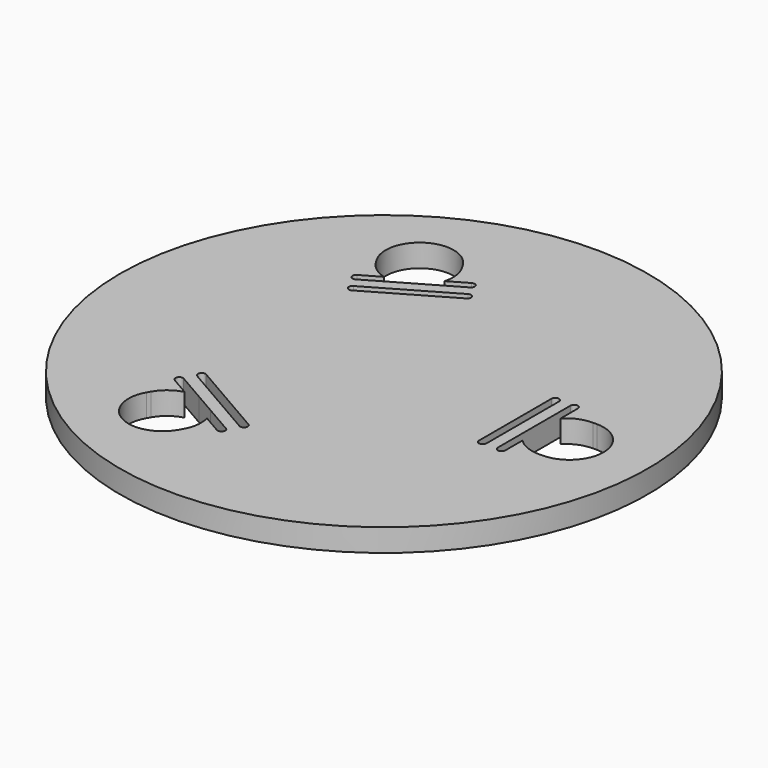
from build123d import *

# Parameters (mm, degrees)
SKETCH015_W     = 34.949282
SKETCH015_H     = 3
POCKET002_DEPTH = 3.001
PAD003_DEPTH    = 3
POCKET003_DEPTH = 3.001


with BuildPart() as part:
    # Sketch015 → Revolution004 (revolve)
    with BuildSketch(Plane.XZ):
        with Locations((-17.474641, 46.45)):
            Rectangle(SKETCH015_W, SKETCH015_H)
    revolve(axis=Axis((0, 0, 0), (0, 0, 1)))

    # Sketch024 (on Face1 of Revolution004) → Pocket002 (cut, through all)
    with BuildSketch(Plane(origin=(0, 0, 47.95), x_dir=(-1, 0, 0), z_dir=(0, 0, 1))):
        with BuildLine():
            ThreePointArc((-24.580824, 4.5), (-29.080824, 0), (-24.580824, -4.5))
            Line((-24.580824, -4.5), (-24.080824, -4.5))
            ThreePointArc((-24.080824, -4.5), (-19.580824, 0), (-24.080824, 4.5))
            Line((-24.080824, 4.5), (-24.580824, 4.5))
        make_face()
        with BuildLine():
            ThreePointArc((15.937526, -18.604605), (9.790412, -16.957491), (8.143298, -23.104605))
            Line((8.143298, -23.104605), (8.393298, -23.537618))
            ThreePointArc((8.393298, -23.537618), (14.540412, -25.184732), (16.187526, -19.037618))
            Line((16.187526, -19.037618), (15.937526, -18.604605))
        make_face()
        with BuildLine():
            ThreePointArc((8.143298, 23.104605), (9.790412, 16.957491), (15.937526, 18.604605))
            Line((15.937526, 18.604605), (16.187526, 19.037618))
            ThreePointArc((16.187526, 19.037618), (14.540412, 25.184732), (8.393298, 23.537618))
            Line((8.393298, 23.537618), (8.143298, 23.104605))
        make_face()
    extrude(amount=-POCKET002_DEPTH, mode=Mode.SUBTRACT)

    # Sketch025 (on Face1 of Pocket002) → Pad003 (join)
    with BuildSketch(Plane(origin=(0, 0, 47.95), x_dir=(-1, 0, 0), z_dir=(0, 0, 1))):
        Polygon((-19.880824, 1.615549), (8.541305, 18.025073), (11.339519, 16.409524), (11.339519, -16.409524), (8.541305, -18.025073), (-19.880824, -1.615549), align=None)
    extrude(amount=-PAD003_DEPTH)

    # Sketch026 (on Face2 of Pad003) → Pocket003 (cut, through all)
    with BuildSketch(Plane(origin=(0, 0, 47.95), x_dir=(-1, 0, 0), z_dir=(0, 0, 1))):
        with BuildLine():
            ThreePointArc((-19.880824, 6), (-20.380824, 6.5), (-20.880824, 6))
            Line((-20.880824, 6), (-20.880824, -6))
            ThreePointArc((-20.880824, -6), (-20.380824, -6.5), (-19.880824, -6))
            Line((-19.880824, -6), (-19.880824, 6))
        make_face()
        with BuildLine():
            ThreePointArc((15.636564, -15.083324), (15.819577, -14.400311), (15.136564, -14.217299))
            Line((15.136564, -14.217299), (4.74426, -20.217299))
            ThreePointArc((4.74426, -20.217299), (4.561247, -20.900311), (5.24426, -21.083324))
            Line((5.24426, -21.083324), (15.636564, -15.083324))
        make_face()
        with BuildLine():
            ThreePointArc((5.24426, 21.083324), (4.561247, 20.900311), (4.74426, 20.217299))
            Line((4.74426, 20.217299), (15.136564, 14.217299))
            ThreePointArc((15.136564, 14.217299), (15.819577, 14.400311), (15.636564, 15.083324))
            Line((15.636564, 15.083324), (5.24426, 21.083324))
        make_face()
        with BuildLine():
            ThreePointArc((-17.380824, 6), (-17.880824, 6.5), (-18.380824, 6))
            Line((-18.380824, 6), (-18.380824, -6))
            ThreePointArc((-18.380824, -6), (-17.880824, -6.5), (-17.380824, -6))
            Line((-17.380824, -6), (-17.380824, 6))
        make_face()
        with BuildLine():
            ThreePointArc((3.99426, 18.918261), (3.311247, 18.735248), (3.49426, 18.052235))
            Line((3.49426, 18.052235), (13.886564, 12.052235))
            ThreePointArc((13.886564, 12.052235), (14.569577, 12.235248), (14.386564, 12.918261))
            Line((14.386564, 12.918261), (3.99426, 18.918261))
        make_face()
        with BuildLine():
            ThreePointArc((14.386564, -12.918261), (14.569577, -12.235248), (13.886564, -12.052235))
            Line((13.886564, -12.052235), (3.49426, -18.052235))
            ThreePointArc((3.49426, -18.052235), (3.311247, -18.735248), (3.99426, -18.918261))
            Line((3.99426, -18.918261), (14.386564, -12.918261))
        make_face()
    extrude(amount=-POCKET003_DEPTH, mode=Mode.SUBTRACT)


with BuildPart() as part_1:
    # Body005 placement: moved
    add(part.part.moved(Location((0, 0, -20))))


solid = part_1.part
